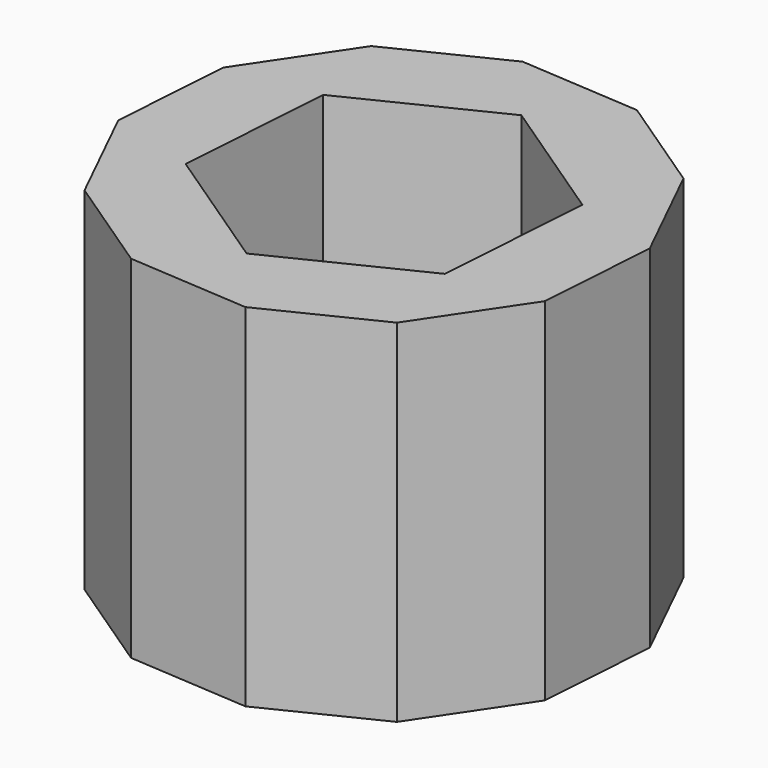
from build123d import *

# Parameters (mm, degrees)
F1_DEPTH = 22


with BuildPart() as f1:
    # F0 (on Top) → F1 (new body)
    with BuildSketch(Plane.XY):
        Polygon((13.861644, -4.741027), (14.375049, 2.824972), (11.036671, 9.634022), (4.741027, 13.861644), (-2.824972, 14.375049), (-9.634022, 11.036671), (-13.861644, 4.741027), (-14.375049, -2.824972), (-11.036671, -9.634022), (-4.741027, -13.861644), (2.824972, -14.375049), (9.634022, -11.036671), align=None)
        Polygon((-8.244118, 5.536051), (0.672302, 9.907641), (8.916419, 4.37159), (8.244118, -5.536051), (-0.672302, -9.907641), (-8.916419, -4.37159), align=None, mode=Mode.SUBTRACT)
    extrude(amount=F1_DEPTH)


solid = f1.part
